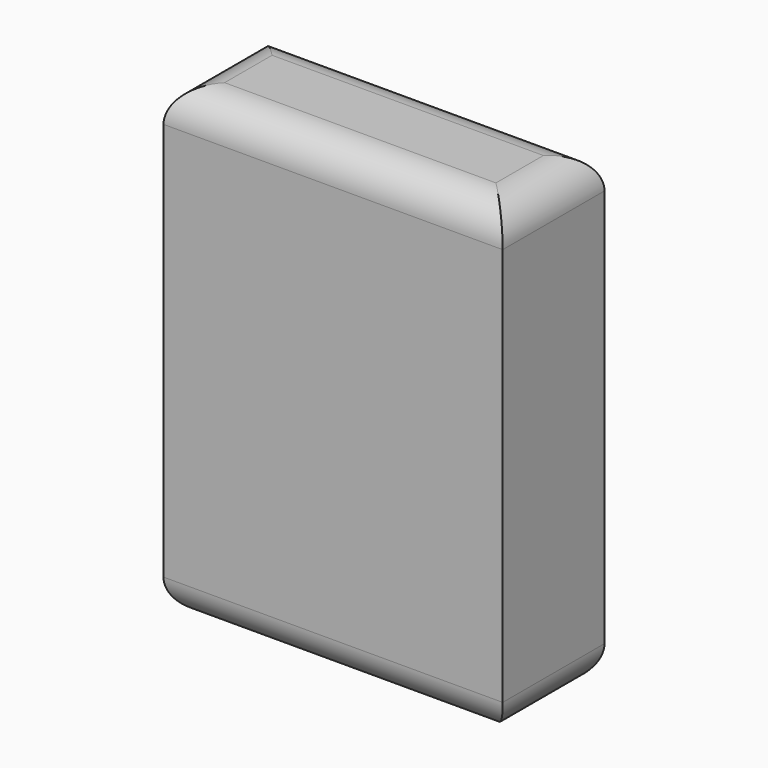
from build123d import *

# Parameters (mm, degrees)
F0_W     = 50.8
F0_H     = 69.85
F1_DEPTH = 19.05
F2_R     = 5.08
F3_R     = 5.08


with BuildPart() as f1:
    # F0 (on Front) → F1 (new body)
    with BuildSketch(Plane.XZ):
        with Locations((-25.4, 34.925)):
            Rectangle(F0_W, F0_H)
    extrude(amount=F1_DEPTH)

    # F2
    f2_edges = [f1.edges().sort_by_distance(p)[0] for p in [
        (0, -9.525, 69.85),
        (-50.8, -9.525, 69.85),
        (-25.4, 0, 69.85),
        (-25.4, -19.05, 69.85),
    ]]
    fillet(f2_edges, radius=F2_R)

    # F3
    f3_edges = [f1.edges().sort_by_distance(p)[0] for p in [
        (-50.8, -9.525, 0),
        (0, -9.525, 0),
        (-25.4, 0, 0),
        (-25.4, -19.05, 0),
    ]]
    fillet(f3_edges, radius=F3_R)


solid = f1.part
